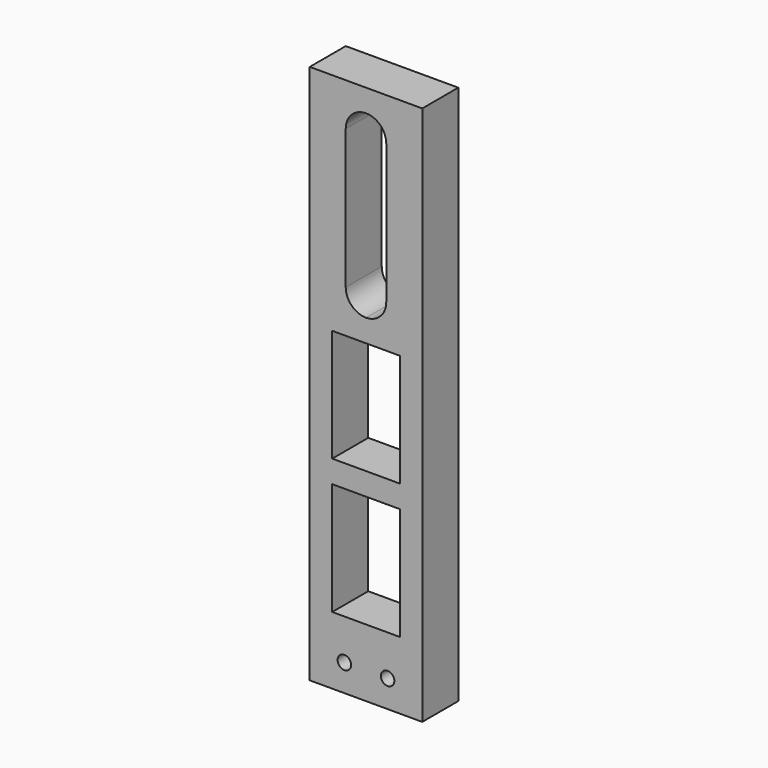
from build123d import *

# Parameters (mm, degrees)
F0_W     = 25
F0_H     = 120
F0_R     = 1.5
F0_W_2   = 15
F0_H_2   = 25
F1_DEPTH = 10


with BuildPart() as f1:
    # F0 (on Front) → F1 (new body)
    with BuildSketch(Plane.XZ):
        with Locations((12.5, 60)):
            Rectangle(F0_W, F0_H)
        with Locations((7.7, 6)):
            Circle(F0_R, mode=Mode.SUBTRACT)
        with Locations((17.3, 6)):
            Circle(F0_R, mode=Mode.SUBTRACT)
        with Locations((12.5, 27.5)):
            Rectangle(F0_W_2, F0_H_2, mode=Mode.SUBTRACT)
        with Locations((12.5, 57.5)):
            Rectangle(F0_W_2, F0_H_2, mode=Mode.SUBTRACT)
        with BuildLine():
            Line((8, 79.5), (8, 110.5))
            ThreePointArc((8, 110.5), (9.318019, 113.681981), (12.5, 115))
            ThreePointArc((12.5, 115), (15.681981, 113.681981), (17, 110.5))
            Line((17, 110.5), (17, 79.5))
            ThreePointArc((17, 79.5), (15.681981, 76.318019), (12.5, 75))
            ThreePointArc((12.5, 75), (9.318019, 76.318019), (8, 79.5))
        make_face(mode=Mode.SUBTRACT)
    extrude(amount=F1_DEPTH)


solid = f1.part
